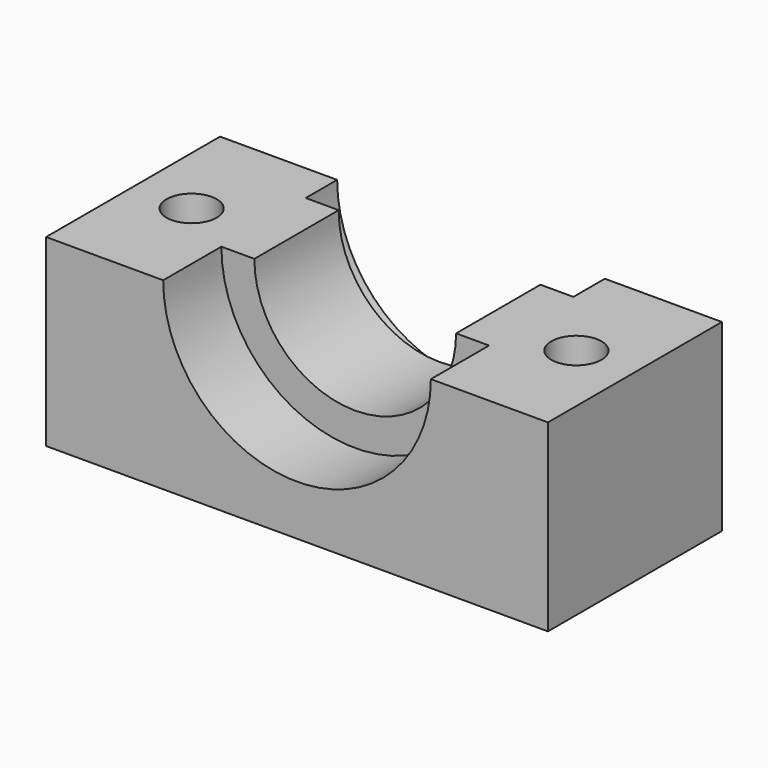
from build123d import *

# Parameters (mm, degrees)
SKETCH016_W             = 30
SKETCH016_H             = 13
PAD006_DEPTH            = 11
GROOVE001_ANGLE         = 180
SKETCH018_R             = 1.5
POCKET007_DEPTH         = 20
SKETCH019_R             = 3.5
POCKET008_DEPTH         = 3
SKETCH041_R             = 2.5
POCKET017_DEPTH         = 3
BODY001_PLACEMENT_ANGLE = 180


with BuildPart() as part:
    # Sketch016 → Pad006 (new body)
    with BuildSketch(Plane.XY):
        with Locations((-25, 6.5)):
            Rectangle(SKETCH016_W, SKETCH016_H)
    extrude(amount=PAD006_DEPTH)

    # Sketch017 (on Face5 of Pad006) → Groove001 (revolve, cut)
    with BuildSketch(Plane(origin=(0, 0, 0), x_dir=(1, 0, 0), z_dir=(0, 0, -1))):
        Polygon((-33, -13), (-33, -10.65), (-31.03, -10.65), (-31.03, -4.35), (-33, -4.35), (-33, 0), (-25, 0), (-25, -13), align=None)
    revolve(axis=Axis((-25, 0, 0), (0, 1, 0)), revolution_arc=GROOVE001_ANGLE, mode=Mode.SUBTRACT)

    # Sketch018 (on Face6 of Groove001) → Pocket007 (cut)
    with BuildSketch(Plane.XY.offset(11)):
        with Locations((-36.5, 6.5)):
            Circle(SKETCH018_R)
        with Locations((-13.5, 6.5)):
            Circle(SKETCH018_R)
    extrude(amount=-POCKET007_DEPTH, mode=Mode.SUBTRACT)

    # Sketch019 (on Face6 of Pocket007) → Pocket008 (cut)
    with BuildSketch(Plane.XY.offset(11)):
        with Locations((-36.5, 6.5)):
            Circle(SKETCH019_R)
        with Locations((-13.5, 6.5)):
            Circle(SKETCH019_R)
    extrude(amount=-POCKET008_DEPTH, mode=Mode.SUBTRACT)

    # Sketch041 (on Face6 of Pocket008) → Pocket017 (cut)
    with BuildSketch(Plane.XY.offset(11)):
        with Locations((-20.75, 4)):
            Circle(SKETCH041_R)
    extrude(amount=-POCKET017_DEPTH, mode=Mode.SUBTRACT)


with BuildPart() as part_1:
    # Body001 placement: moved
    add(part.part.moved(Location((-10, 0, -11))).rotate(Axis((-10, 0, -11), (0, 1, 0)), BODY001_PLACEMENT_ANGLE))


solid = part_1.part
